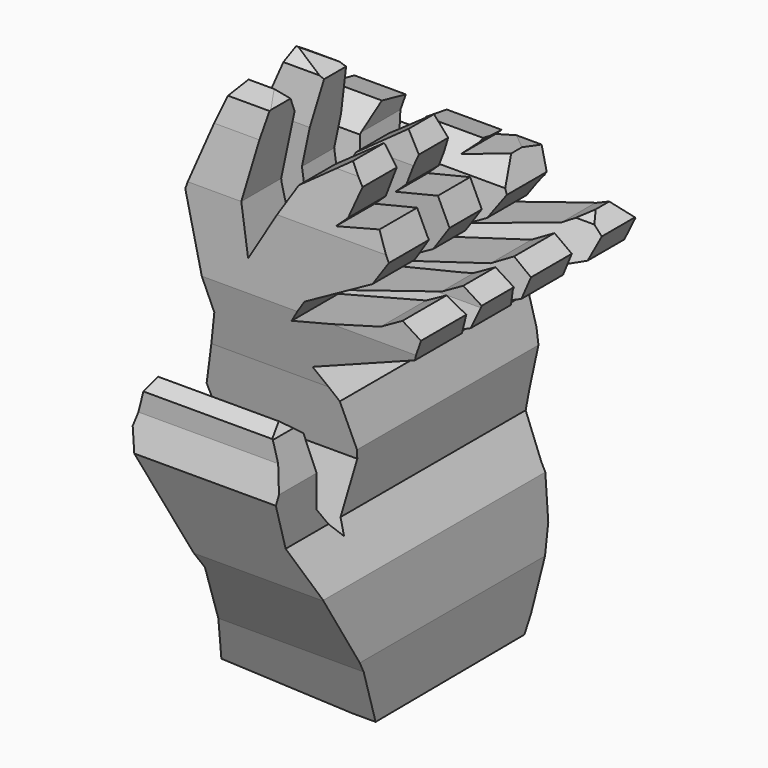
from build123d import *

# Parameters (mm, degrees)
F1_DEPTH = 50.8
F3_DEPTH = 88.9


with BuildPart() as f1:
    # F0 (on Front) → F1 (new body, symmetric)
    with BuildSketch(Plane.XZ):
        Polygon((-19.63379, -40.465888), (-27.376695, -70.884436), (13.550079, -73.28105), (15.393632, -55.214275), (14.103146, -36.410082), (7.835083, -24.24266), (9.494272, -9.125564), (6.36024, 2.120081), (0, 8.756855), (29.588955, 20.924276), (31.432502, 26.270565), (26.454922, 29.404595), (20.555561, 26.086211), (-3.963629, 19.26508), (0, 25.34879), (18.343307, 35.488307), (22.767823, 41.940726), (19.633792, 48.577502), (8.203791, 45.812178), (11.153466, 48.577502), (14.139802, 56.377097), (10.784757, 61.113629), (-2.488789, 51.711533), (-15.209274, 30.695081), (-17.052822, 43.599918), (-12.509717, 65.082186), (-22.399113, 68.672173), (-32.169919, 41.756369), (-25.717501, 13.734437), (-30.695081, -6.175887), align=None)
    extrude(amount=F1_DEPTH, both=True)

    # F2 (on Right) → F3 (intersect, symmetric)
    with BuildSketch(Plane.YZ):
        Polygon((-28.482823, -58.163952), (-22.583468, -72.912343), (27.56105, -72.543629), (29.220244, -68.119116), (34.013465, -48.024435), (34.013465, -34.382179), (35.857018, -18.896371), (38.069274, -5.438467), (38.069274, 10.600403), (42.862501, 25.901856), (38.991049, 30.879436), (32.169919, 27.929757), (26.396504, 15.489846), (23.505243, 13.734437), (20.37121, 18.896371), (22.823287, 38.655246), (24.980079, 47.10266), (16.315402, 49.314924), (10.416048, 43.231212), (6.196184, 18.644363), (3.963629, 17.974596), (1.751371, 25.34879), (1.751371, 52.264594), (0, 65.722503), (-4.332338, 68.487823), (-7.282016, 65.538146), (-9.125565, 53.555083), (-9.125565, 25.717501), (-12.443951, 14.471854), (-14.471856, 27.376693), (-16.131047, 42.678144), (-16.131047, 60.744923), (-19.449435, 66.459917), (-25.717501, 64.985082), (-27.376695, 58.348306), (-29.588953, 43.599918), (-29.588953, 22.399114), (-26.086209, 4.885403), (-23.320887, -11.522178), (-28.298467, -27.745403), (-36.041372, -18.712016), (-38.622338, 0), (-43.784276, 4.147984), (-48.208792, 2.304435), (-48.208792, -3.041855), (-50.789759, -11.522178), (-40.834598, -36.594436), align=None)
    extrude(amount=F3_DEPTH, both=True, mode=Mode.INTERSECT)


solid = f1.part
